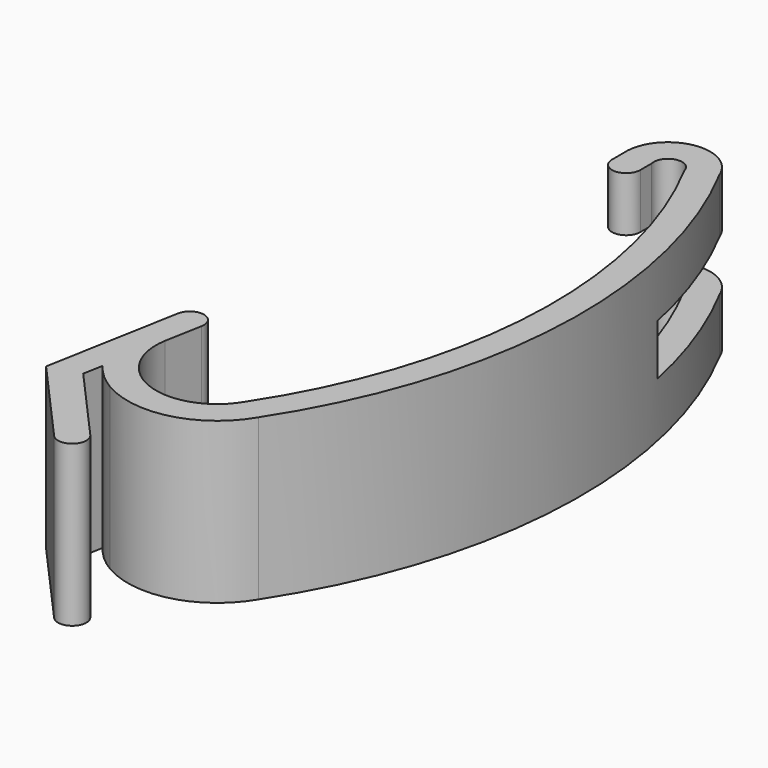
from build123d import *

# Parameters (mm, degrees)
F1_DEPTH      = 17
F3_DEPTH      = 150
F3_DEPTH_BACK = 25


with BuildPart() as f1:
    # F0 (on Top) → F1 (new body)
    with BuildSketch(Plane.XY):
        with BuildLine():
            Line((-11.8825086199, -21.935047995), (-8.9312226237, -22.4734818057))
            Line((-8.9312226237, -22.4734818057), (-8.213310876, -18.5384338107))
            ThreePointArc((-8.213310876, -18.5384338107), (-9.4197369687, -16.7935739073), (-11.1645968722, -18))
            Line((-11.1645968722, -18), (-11.8825086199, -21.935047995))
        make_face()
        with BuildLine():
            ThreePointArc((2.6638383122, 27.5), (3.7969927434, 29.2933099796), (5.5903028117, 28.1601556887))
            ThreePointArc((5.5903028117, 28.1601556887), (11.8707301214, 0.3190753529), (3.0978968201, -26.8398443113))
            ThreePointArc((3.0978968201, -26.8398443113), (-0.908917448, -29.8768455436), (-5.8834154579, -29.1472520849))
            Line((-5.8834154579, -29.1472520849), (-7.4091766717, -31.7302837762))
            ThreePointArc((-7.4091766717, -31.7302837762), (-0.162444822, -32.7824020899), (5.6797630841, -28.3675768125))
            ThreePointArc((5.6797630841, -28.3675768125), (14.8647434728, 0.183397229), (8.2997657894, 29.4481038135))
            ThreePointArc((8.2997657894, 29.4481038135), (3.1422456973, 32.1957980128), (-0.3361616878, 27.5))
            Line((-0.3361616878, 27.5), (-0.3361616878, 26))
            ThreePointArc((-0.3361616878, 26), (1.1638383122, 24.5), (2.6638383122, 26))
            Line((2.6638383122, 26), (2.6638383122, 27.5))
        make_face()
        with BuildLine():
            Line((-10.5465240559, -31.3273397943), (-10.1639891219, -29.2305732632))
            ThreePointArc((-10.1639891219, -29.2305732632), (-11.7731559311, -25.7594572525), (-11.8825086199, -21.935047995))
            Line((-11.8825086199, -21.935047995), (-12.3404061236, -24.444895006))
            Line((-12.3404061236, -24.444895006), (-13.7607384363, -32.2300800757))
            Line((-13.7607384363, -32.2300800757), (-5.4662183221, -41.5347142683))
            ThreePointArc((-5.4662183221, -41.5347142683), (-3.3483834547, -41.6562686781), (-3.2268290449, -39.5384338107))
            Line((-3.2268290449, -39.5384338107), (-10.5465240559, -31.3273397943))
        make_face()
        with BuildLine():
            Line((-7.4091766717, -31.7302837762), (-5.8834154579, -29.1472520849))
            ThreePointArc((-5.8834154579, -29.1472520849), (-8.4389300147, -26.2814876442), (-8.9312226237, -22.4734818057))
            Line((-8.9312226237, -22.4734818057), (-10.1639891219, -29.2305732632))
            ThreePointArc((-10.1639891219, -29.2305732632), (-8.9101299966, -30.6165839213), (-7.4091766717, -31.7302837762))
        make_face()
        with BuildLine():
            Line((-10.1639891219, -29.2305732632), (-8.9312226237, -22.4734818057))
            Line((-8.9312226237, -22.4734818057), (-11.8825086199, -21.935047995))
            ThreePointArc((-11.8825086199, -21.935047995), (-11.7731559311, -25.7594572525), (-10.1639891219, -29.2305732632))
        make_face()
    extrude(amount=F1_DEPTH)

    # F2 (on Right) → F3 (cut, two sides)
    with BuildSketch(Plane.YZ) as f3_sk:
        Polygon((49.3275342038, 11.2), (28.4481038135, 11.2), (14.4481038135, 11.2), (14.4481038135, 5.8), (49.3275342038, 5.8), align=None)
    extrude(amount=-F3_DEPTH, mode=Mode.SUBTRACT)
    extrude(f3_sk.sketch, amount=F3_DEPTH_BACK, mode=Mode.SUBTRACT)


solid = f1.part
